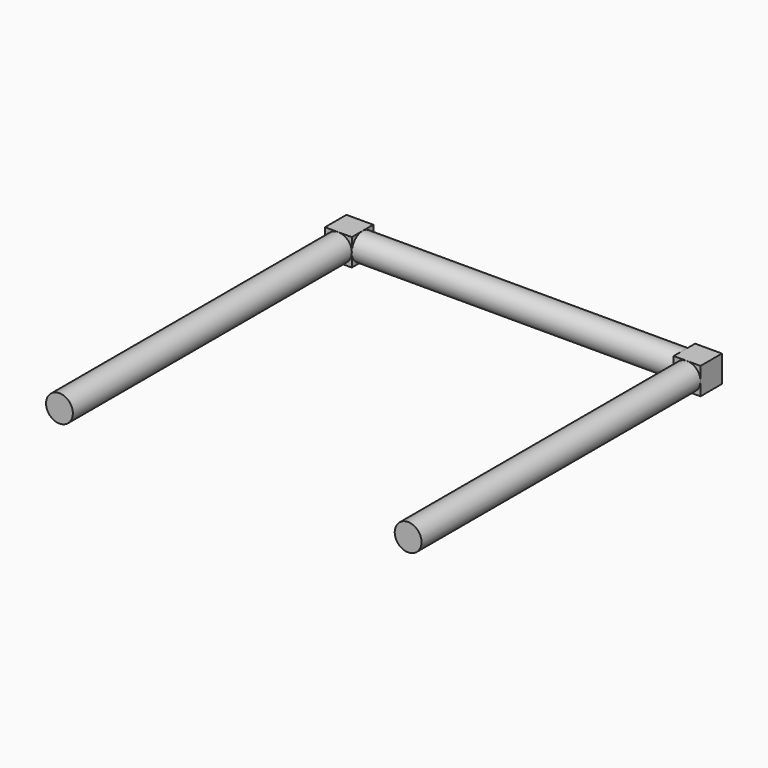
from build123d import *

# Parameters (mm, degrees)
F0_R     = 12.7
F1_DEPTH = 152.4
F2_W     = 25.4
F2_H     = 25.4
F3_DEPTH = 25.4
F4_R     = 12.688144
F5_DEPTH = 330.2


with BuildPart() as f1:
    # F0 (on Right) → F1 (new body)
    with BuildSketch(Plane.YZ):
        Circle(F0_R)
    extrude(amount=-F1_DEPTH)

    # F2 (on face) → F3 (join)
    with BuildSketch(Plane(origin=(-152.4, 0, 0), x_dir=(0, -1, 0), z_dir=(-1, 0, 0))):
        Rectangle(F2_W, F2_H)
    extrude(amount=F3_DEPTH)

    # F4 (on face) → F5 (join)
    with BuildSketch(Plane.XZ.offset(12.7)):
        with Locations((-165.1, 0)):
            Circle(F4_R)
    extrude(amount=F5_DEPTH)

    # F6: F1 across face


with BuildPart() as f1_1:
    add(f1.part)
    add(f1.part.mirror(Plane.YZ))


solid = f1_1.part
